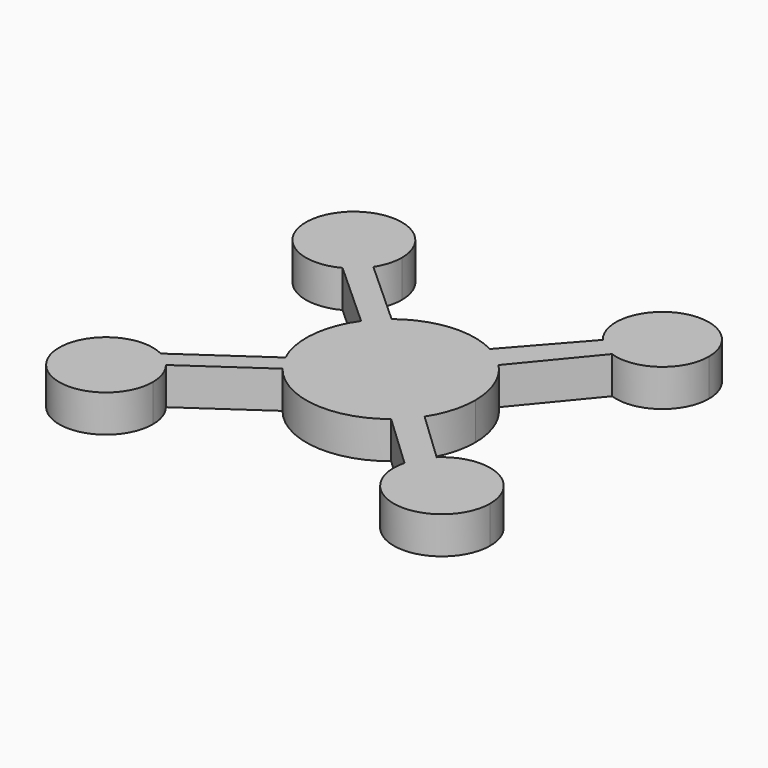
from build123d import *

# Parameters (mm, degrees)
F1_DEPTH = 25.4


with BuildPart() as f1:
    # F0 (on Top) → F1 (new body)
    with BuildSketch(Plane.XY):
        with BuildLine():
            ThreePointArc((48.400308, -31.568082), (55.389335, -16.46679), (57.785237, 0))
            ThreePointArc((57.785237, 0), (53.709523, 21.317148), (42.057317, 39.62721))
            ThreePointArc((42.057317, 39.62721), (34.92482, 46.036839), (26.830535, 51.178667))
            ThreePointArc((26.830535, 51.178667), (-5.303527, 57.541343), (-35.73322, 45.412229))
            ThreePointArc((-35.73322, 45.412229), (-41.82875, 39.8684), (-47.073839, 33.513986))
            ThreePointArc((-47.073839, 33.513986), (-57.558096, 5.118514), (-52.249028, -24.681424))
            ThreePointArc((-52.249028, -24.681424), (-49.129843, -30.420258), (-45.382935, -35.770418))
            ThreePointArc((-45.382935, -35.770418), (-6.481561, -57.42058), (36.267145, -44.986973))
            ThreePointArc((36.267145, -44.986973), (42.862117, -38.75529), (48.400308, -31.568082))
        make_face()
        with BuildLine():
            ThreePointArc((26.830535, 51.178667), (34.92482, 46.036839), (42.057317, 39.62721))
            Line((42.057317, 39.62721), (81.403217, 87.346894))
            ThreePointArc((81.403217, 87.346894), (73.702428, 91.254698), (67.33604, 97.089267))
            Line((67.33604, 97.089267), (26.830535, 51.178667))
        make_face()
        with BuildLine():
            Line((82.838782, -64.306284), (48.400308, -31.568082))
            ThreePointArc((48.400308, -31.568082), (42.862117, -38.75529), (36.267145, -44.986973))
            Line((36.267145, -44.986973), (73.572612, -80.209025))
            ThreePointArc((73.572612, -80.209025), (77.07493, -71.598782), (82.838782, -64.306284))
        make_face()
        with BuildLine():
            ThreePointArc((67.33604, 97.089267), (73.702428, 91.254698), (81.403217, 87.346894))
            ThreePointArc((81.403217, 87.346894), (110.270957, 91.491419), (123.636322, 117.412269))
            ThreePointArc((123.636322, 117.412269), (81.014859, 147.340292), (67.33604, 97.089267))
        make_face()
        with BuildLine():
            ThreePointArc((138.607019, -88.217773), (118.605067, -57.878625), (82.838782, -64.306284))
            ThreePointArc((82.838782, -64.306284), (77.07493, -71.598782), (73.572612, -80.209025))
            ThreePointArc((73.572612, -80.209025), (101.562068, -120.98061), (138.607019, -88.217773))
        make_face()
        with BuildLine():
            ThreePointArc((-47.073839, 33.513986), (-41.82875, 39.8684), (-35.73322, 45.412229))
            Line((-35.73322, 45.412229), (-81.028288, 86.446277))
            ThreePointArc((-81.028288, 86.446277), (-86.391098, 80.088417), (-93.179843, 75.282684))
            Line((-93.179843, 75.282684), (-47.073839, 33.513986))
        make_face()
        with BuildLine():
            Line((-96.653484, -71.296628), (-45.382935, -35.770418))
            ThreePointArc((-45.382935, -35.770418), (-49.129843, -30.420258), (-52.249028, -24.681424))
            Line((-52.249028, -24.681424), (-107.109036, -62.69483))
            ThreePointArc((-107.109036, -62.69483), (-101.421073, -66.436369), (-96.653484, -71.296628))
        make_face()
        with BuildLine():
            ThreePointArc((-93.179843, 75.282684), (-86.391098, 80.088417), (-81.028288, 86.446277))
            ThreePointArc((-81.028288, 86.446277), (-77.11487, 94.973747), (-75.773874, 104.25999))
            ThreePointArc((-75.773874, 104.25999), (-136.735027, 121.161558), (-93.179843, 75.282684))
        make_face()
        with BuildLine():
            ThreePointArc((-89.752808, -91.145426), (-91.527176, -80.638356), (-96.653484, -71.296628))
            ThreePointArc((-96.653484, -71.296628), (-101.421073, -66.436369), (-107.109036, -62.69483))
            ThreePointArc((-107.109036, -62.69483), (-149.064146, -107.808822), (-89.752808, -91.145426))
        make_face()
    extrude(amount=F1_DEPTH)


solid = f1.part
